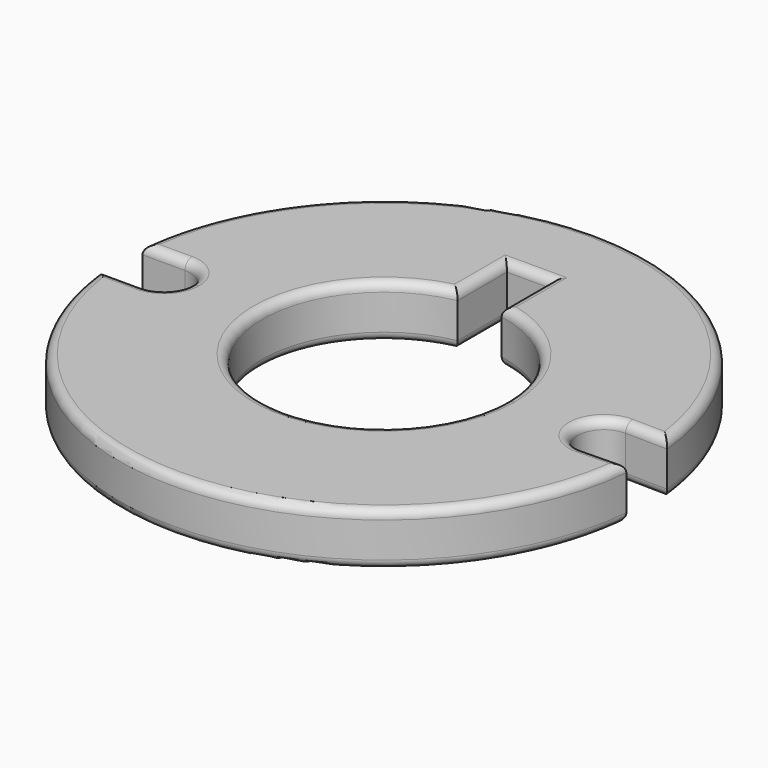
from build123d import *

# Parameters (mm, degrees)
F1_DEPTH = 6
F2_R     = 1


with BuildPart() as f1:
    # F0 (on Top) → F1 (new body)
    with BuildSketch(Plane.XY):
        with BuildLine():
            Line((25.056285, 2.999472), (29.858594, 2.909357))
            ThreePointArc((29.858594, 2.909357), (0.046132, 29.999965), (-29.849505, 3.001173))
            Line((-29.849505, 3.001173), (-25.015751, 3.001173))
            ThreePointArc((-25.015751, 3.001173), (-22.884185, 2.128135), (-21.99989, 0.001215))
            ThreePointArc((-21.99989, 0.001215), (-22.882699, -2.124226), (-25.011557, -2.998763))
            Line((-25.011557, -2.998763), (-29.849747, -2.998763))
            ThreePointArc((-29.849747, -2.998763), (0.051231, -29.999956), (29.859815, -2.896797))
            Line((29.859815, -2.896797), (25.064117, -2.999315))
            ThreePointArc((25.064117, -2.999315), (22.000003, -0.003917), (25.056285, 2.999472))
        make_face()
        with BuildLine():
            ThreePointArc((2.5, 13.594576), (10.621178, 8.846077), (13.822536, 0))
            ThreePointArc((13.822536, 0), (-8.846077, -10.621178), (-2.5, 13.594576))
            Line((-2.5, 13.594576), (-2.5, 20.594576))
            Line((-2.5, 20.594576), (0, 20.594576))
            Line((0, 20.594576), (2.5, 20.594576))
            Line((2.5, 20.594576), (2.5, 13.594576))
        make_face(mode=Mode.SUBTRACT)
    extrude(amount=F1_DEPTH)

    # F2
    f2_edges = [f1.edges().sort_by_distance(p)[0] for p in [
        (27.461966, -2.948056, 6),
        (22.000003, -0.003917, 6),
        (27.457439, 2.954415, 6),
        (0.046132, 29.999965, 6),
        (-27.432628, 3.001173, 6),
        (-21.999891, 0.003312, 6),
        (-27.430652, -2.998763, 6),
        (0.051231, -29.999956, 6),
        (0, -13.822536, 6),
        (-2.5, 17.094576, 6),
        (0, 20.594576, 6),
        (2.5, 17.094576, 6),
        (27.461966, -2.948056, 0),
        (22.000003, -0.003917, 0),
        (27.457439, 2.954415, 0),
        (0.046132, 29.999965, 0),
        (-27.432628, 3.001173, 0),
        (-21.999891, 0.003312, 0),
        (-27.430652, -2.998763, 0),
        (0.051231, -29.999956, 0),
        (0, -13.822536, 0),
        (-2.5, 17.094576, 0),
        (0, 20.594576, 0),
        (2.5, 17.094576, 0),
    ]]
    fillet(f2_edges, radius=F2_R)


solid = f1.part
